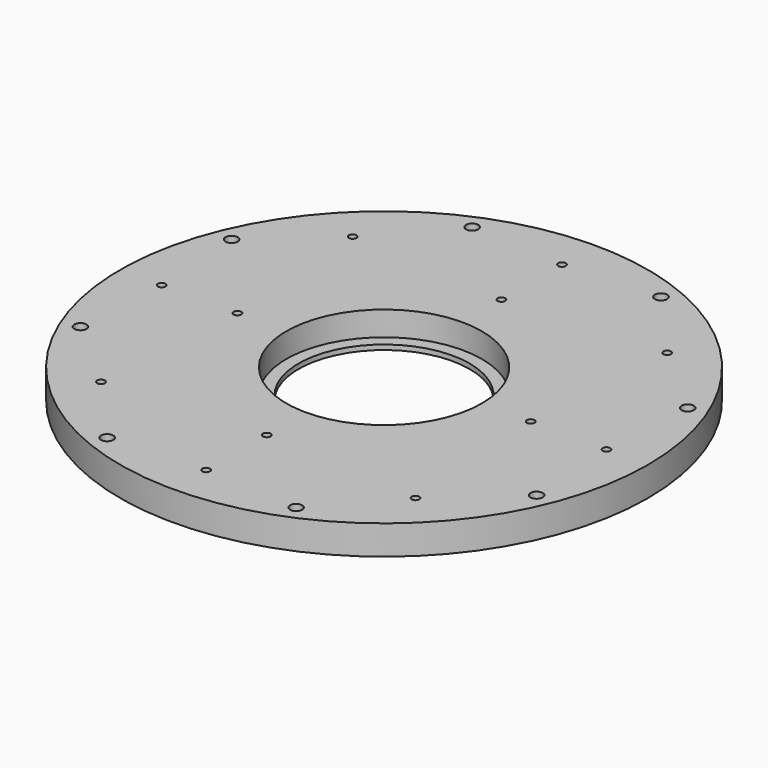
from build123d import *

# Parameters (mm, degrees)
SKETCH001_R     = 108
SKETCH001_R_2   = 35
SKETCH001_R_3   = 2.5
SKETCH001_R_4   = 1.5625
PAD_DEPTH       = 12
SKETCH_R        = 1.5625
POCKET_DEPTH    = 12.001
SKETCH002_R     = 40
POCKET001_DEPTH = 10


with BuildPart() as part:
    # Sketch001 → Pad (new body)
    with BuildSketch(Plane(origin=(0, 0, 0), x_dir=(1, 0, 0), z_dir=(0, 0, -1))):
        Circle(SKETCH001_R)
        Circle(SKETCH001_R_2, mode=Mode.SUBTRACT)
        with Locations((38.651027, 93.311833)):
            Circle(SKETCH001_R_3, mode=Mode.SUBTRACT)
        with Locations((93.311833, 38.651027)):
            Circle(SKETCH001_R_3, mode=Mode.SUBTRACT)
        with Locations((93.311833, -38.651027)):
            Circle(SKETCH001_R_3, mode=Mode.SUBTRACT)
        with Locations((38.651027, -93.311833)):
            Circle(SKETCH001_R_3, mode=Mode.SUBTRACT)
        with Locations((-38.651027, 93.311833)):
            Circle(SKETCH001_R_3, mode=Mode.SUBTRACT)
        with Locations((-93.311833, 38.651027)):
            Circle(SKETCH001_R_3, mode=Mode.SUBTRACT)
        with Locations((-93.311833, -38.651027)):
            Circle(SKETCH001_R_3, mode=Mode.SUBTRACT)
        with Locations((-38.651027, -93.311833)):
            Circle(SKETCH001_R_3, mode=Mode.SUBTRACT)
        with Locations((0, 60)):
            Circle(SKETCH001_R_4, mode=Mode.SUBTRACT)
        with Locations((-60, 0)):
            Circle(SKETCH001_R_4, mode=Mode.SUBTRACT)
        with Locations((0, -60)):
            Circle(SKETCH001_R_4, mode=Mode.SUBTRACT)
        with Locations((60, 0)):
            Circle(SKETCH001_R_4, mode=Mode.SUBTRACT)
    extrude(amount=PAD_DEPTH)

    # Sketch → Pocket (cut, through all)
    with BuildSketch(Plane.XY):
        with Locations((64.346717, 64.346717)):
            Circle(SKETCH_R)
        with Locations((0, 91)):
            Circle(SKETCH_R)
        with Locations((91, 0)):
            Circle(SKETCH_R)
        with Locations((64.346717, -64.346717)):
            Circle(SKETCH_R)
        with Locations((0, -91)):
            Circle(SKETCH_R)
        with Locations((-91, 0)):
            Circle(SKETCH_R)
        with Locations((-64.346717, -64.346717)):
            Circle(SKETCH_R)
        with Locations((-64.346717, 64.346717)):
            Circle(SKETCH_R)
    extrude(amount=-POCKET_DEPTH, mode=Mode.SUBTRACT)

    # Sketch002 (on Face2 of Pocket) → Pocket001 (cut)
    with BuildSketch(Plane.XY):
        Circle(SKETCH002_R)
    extrude(amount=-POCKET001_DEPTH, mode=Mode.SUBTRACT)


solid = part.part
